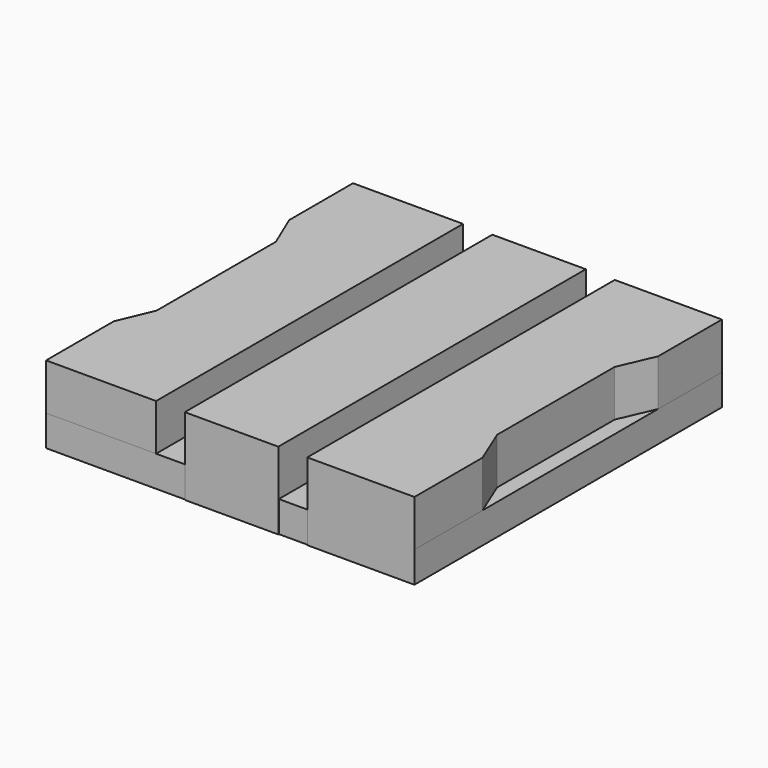
from build123d import *

# Parameters (mm, degrees)
F1_DEPTH = 12.7
F2_W     = 60.613946
F2_H     = 63.032203
F3_DEPTH = 5.08


with BuildPart() as f1:
    # F0 (on Top) → F1 (new body)
    with BuildSketch(Plane.XY):
        Polygon((57.343874, 69.903992), (39.266109, 69.903992), (39.266109, 56.798093), (41.701067, 51.021639), (41.701067, 26.506934), (39.266109, 20.730481), (39.266109, 6.871789), (57.343874, 6.871789), align=None)
        Polygon((77.509657, 69.903992), (62.152132, 69.903992), (62.144414, 6.756898), (77.509657, 6.756898), align=None)
        Polygon((99.880055, 69.903992), (82.270093, 69.903992), (82.270093, 6.756898), (99.880055, 6.756898), (99.880055, 20.730481), (97.364351, 26.882574), (97.364351, 51.021639), (99.880055, 56.798093), align=None)
    extrude(amount=F1_DEPTH)


with BuildPart() as f3:
    # F2 (on face) → F3 (new body)
    with BuildSketch(Plane(origin=(0, 0, 0), x_dir=(1, 0, 0), z_dir=(0, 0, -1))):
        with Locations((69.573082, -38.38789)):
            Rectangle(F2_W, F2_H)
    extrude(amount=-F3_DEPTH)


solid = Compound([f1.part, f3.part])
